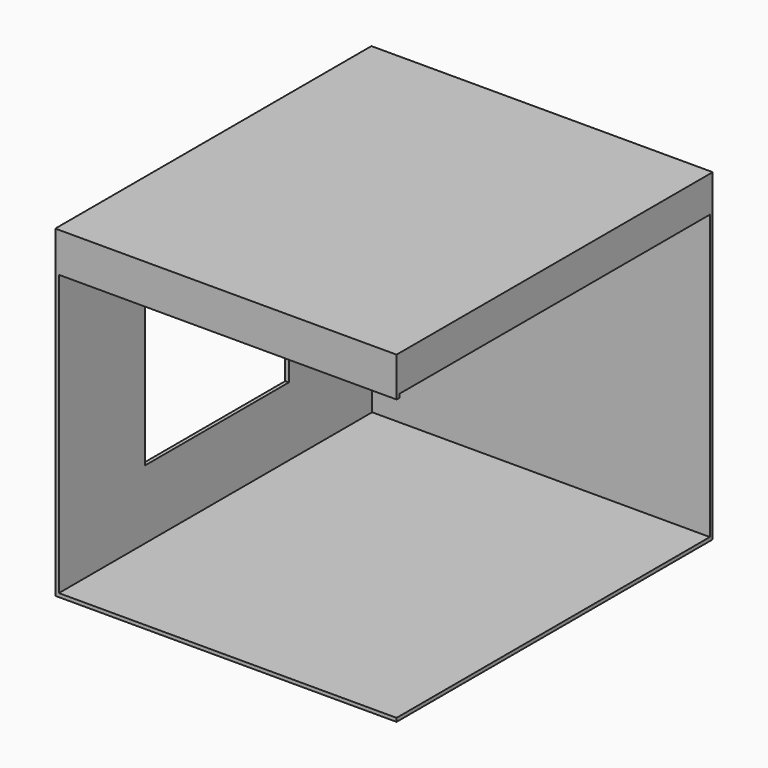
from build123d import *

# Parameters (mm, degrees)
F0_W     = 241.3
F0_H     = 279.4
F1_DEPTH = 228.6
F2_T     = -2.54
F3_W     = 127
F3_H     = 127
F4_DEPTH = 25.4
F5_W     = 276.86
F5_H     = 200.66
F6_DEPTH = 25.4
F7_W     = 2.54
F7_H     = 25.4
F8_DEPTH = 238.76


with BuildPart() as f1:
    # F0 (on Top) → F1 (new body)
    with BuildSketch(Plane.XY):
        Rectangle(F0_W, F0_H)
    extrude(amount=F1_DEPTH)

    # F2
    f2_openings = [f1.faces().sort_by_distance(p)[0] for p in [
        (0, -139.7, 114.3),
    ]]
    offset(amount=F2_T, openings=f2_openings)

    # F3 (on face) → F4 (cut)
    with BuildSketch(Plane.YZ.offset(-118.11)):
        with Locations((0, 114.533028)):
            Rectangle(F3_W, F3_H)
    extrude(amount=-F4_DEPTH, mode=Mode.SUBTRACT)

    # F5 (on face) → F6 (cut)
    with BuildSketch(Plane.YZ.offset(120.65)):
        with Locations((-1.27, 102.87)):
            Rectangle(F5_W, F5_H)
    extrude(amount=-F6_DEPTH, mode=Mode.SUBTRACT)

    # F7 (on face) → F8 (join, through all)
    with BuildSketch(Plane.YZ.offset(-118.11)):
        with Locations((-138.43, 213.36)):
            Rectangle(F7_W, F7_H)
    extrude(amount=F8_DEPTH)


solid = f1.part
